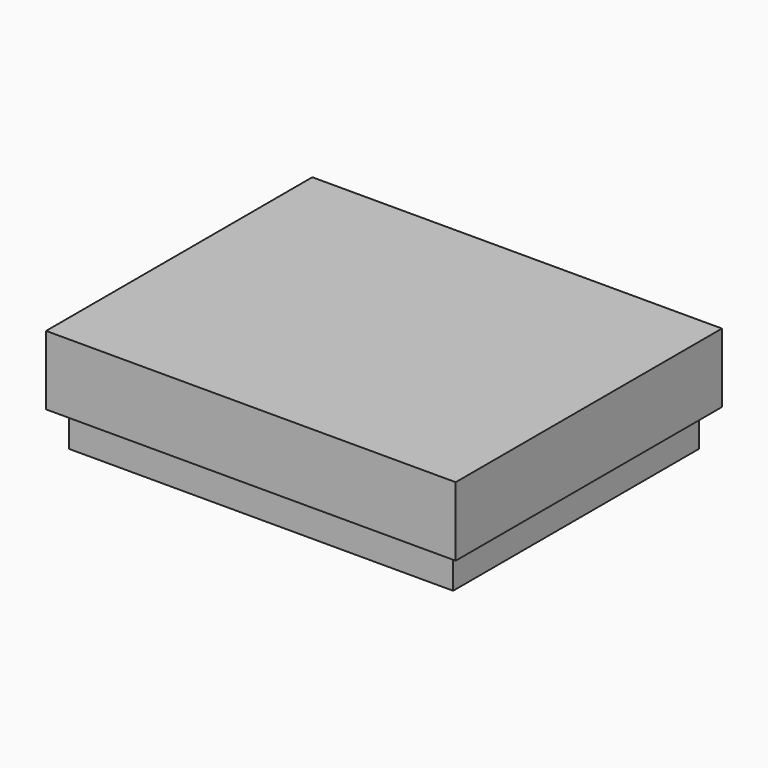
from build123d import *

# Parameters (mm, degrees)
F0_W      = 75
F0_H      = 60
F1_DEPTH  = 2
F2_W      = 75
F2_H      = 60
F2_W_2    = 70
F2_H_2    = 55
F3_DEPTH  = 15
F6_W      = 13
F6_H      = 15
F7_DEPTH  = 2.5
F8_W      = 80
F8_H      = 65
F9_DEPTH  = 13.5
F10_W     = 76.4489173889
F10_H     = 61.4301860332
F11_DEPTH = 12.3
F12_W     = 12.9451896064
F12_H     = 7.7239975631
F13_DEPTH = 25
F14_W     = 10.0594116375
F14_H     = 10.0846514106
F14_W_2   = 10.0856106728
F14_H_2   = 10.043987073
F14_W_3   = 10.1302694529
F14_H_3   = 12.0400618762
F14_W_4   = 10.0820055231
F14_H_4   = 10.0494008511
F15_DEPTH = 4.8
F16_R     = 1.7738329655
F16_R_2   = 1.7066073619
F16_R_3   = 1.7222481611
F16_R_4   = 1.8430179388
F17_DEPTH = 4.4


with BuildPart() as f1:
    # F0 (on Top) → F1 (new body)
    with BuildSketch(Plane.XY):
        Rectangle(F0_W, F0_H)
    extrude(amount=F1_DEPTH)

    # F2 (on face) → F3 (join)
    with BuildSketch(Plane.XY.offset(2)):
        Rectangle(F2_W, F2_H)
        Rectangle(F2_W_2, F2_H_2, mode=Mode.SUBTRACT)
    extrude(amount=F3_DEPTH)

    # F6 (on face) → F7 (cut, through all)
    with BuildSketch(Plane.YZ.offset(-35)):
        with Locations((11, 9.5)):
            Rectangle(F6_W, F6_H)
    extrude(amount=-F7_DEPTH, mode=Mode.SUBTRACT)

    # F14 (on face) → F15 (join)
    with BuildSketch(Plane.XY.offset(2)):
        with Locations((-19.992497284, 22.4738009274)):
            Rectangle(F14_W, F14_H)
        with Locations((29.9425097182, 7.4932300486)):
            Rectangle(F14_W_2, F14_H_2)
        with Locations((29.9648391083, -21.4694244787)):
            Rectangle(F14_W_3, F14_H_3)
        with Locations((-20.0037942268, -22.4647549912)):
            Rectangle(F14_W_4, F14_H_4)
    extrude(amount=F15_DEPTH)

    # F16 (on face) → F17 (cut)
    with BuildSketch(Plane.XY.offset(6.8)):
        with Locations((-18.4948202223, 24.0374710411)):
            Circle(F16_R)
        with Locations((31.4975194633, 8.5000935942)):
            Circle(F16_R_2)
        with Locations((31.5043963492, -19.4977931678)):
            Circle(F16_R_3)
        with Locations((-20.5112546682, -23.9534582943)):
            Circle(F16_R_4)
    extrude(amount=-F17_DEPTH, mode=Mode.SUBTRACT)


with BuildPart() as f9:
    # F8 (on offset) → F9 (new body)
    with BuildSketch(Plane.XY.offset(7)):
        Rectangle(F8_W, F8_H)
    extrude(amount=F9_DEPTH)

    # F10 (on face) → F11 (cut)
    with BuildSketch(Plane(origin=(0, 0, 7), x_dir=(1, 0, 0), z_dir=(0, 0, -1))):
        Rectangle(F10_W, F10_H)
    extrude(amount=-F11_DEPTH, mode=Mode.SUBTRACT)

    # F12 (on face) → F13 (cut)
    with BuildSketch(Plane(origin=(-40, 0, 0), x_dir=(0, -1, 0), z_dir=(-1, 0, 0))):
        with Locations((-10.9797643963, 10.8619987816)):
            Rectangle(F12_W, F12_H)
    extrude(amount=-F13_DEPTH, mode=Mode.SUBTRACT)


solid = Compound([f1.part, f9.part])
